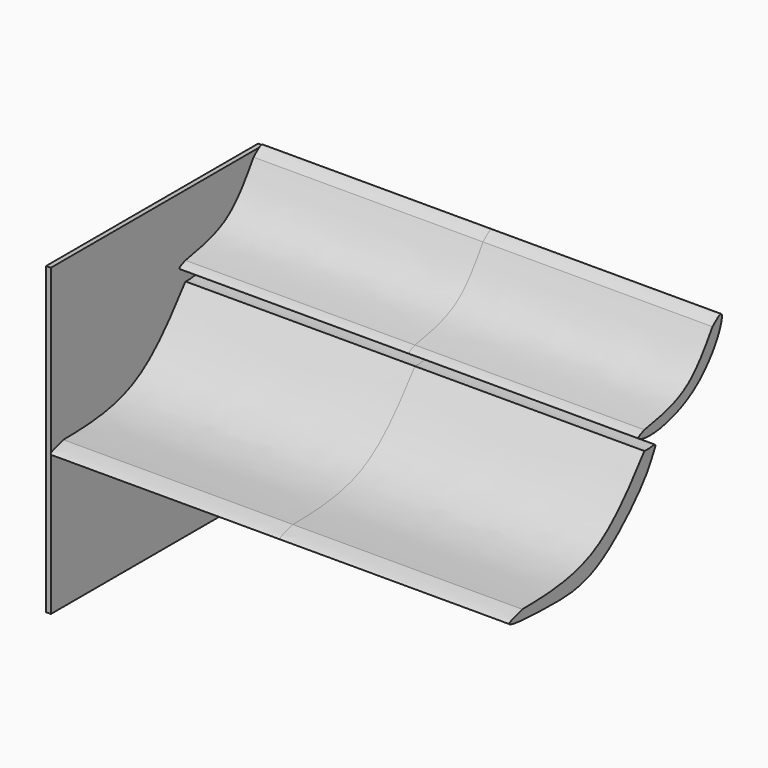
from build123d import *

# Parameters (mm, degrees)
F1_DEPTH      = 304.8
F1_DEPTH_BACK = 304.8
F2_W          = 352.0074793358
F2_H          = 404.9128138673
F3_DEPTH      = 6.35


with BuildPart() as f1:
    # F0 (on Right) → F1 (new body, two sides)
    with BuildSketch(Plane.YZ) as f1_sk:
        with BuildLine():
            add(Edge.make_bspline(
                [(-202.6852667332, -102.7310341597), (-211.2844708777, -105.0491450978), (-244.7517417054, -113.9577447915), (-150.921789205, -118.3879937753), (-77.6298104244, -116.8426703272), (1.9931834611, -36.1167204141), (12.5484359057, -11.874440147), (21.2394947025, 2.1845515765), (8.9061392196, -0.5884617957), (3.3205170334, -0.1983987481), (0, 0)],
                knots=[0, 0, 0, 0, 0.1027725422, 0.2712588428, 0.4708251277, 0.6901317405, 0.8037703185, 0.8714129667, 0.9325245086, 1, 1, 1, 1], degree=3))
            add(Edge.make_bspline(
                [(0, 0), (-25.563658428, -33.254615137), (-77.0567733596, -98.5736954544), (-160.0724958466, -102.3436006576), (-202.6852667332, -102.7310341597)],
                knots=[0, 0, 0, 0, 0.4992913072, 1, 1, 1, 1], degree=3))
        make_face()
    extrude(amount=F1_DEPTH)
    extrude(f1_sk.sketch, amount=-F1_DEPTH_BACK)


with BuildPart() as f1b:
    # F0 (on Right) → F1, piece 2 (new body, two sides)
    with BuildSketch(Plane.YZ) as f1_2_sk:
        with BuildLine():
            add(Edge.make_bspline(
                [(0, 24.7053261846), (24.5645267828, 29.0874599649), (73.4337711907, 37.8053794521), (99.9028810565, 78.9184387784), (113.0670756102, 99.3656814098)],
                knots=[0, 0, 0, 0, 0.5026582072, 1, 1, 1, 1], degree=3))
            add(Edge.make_bspline(
                [(0, 24.7053261846), (-4.7426999966, 22.9684229179), (-14.8071194978, 19.2825639933), (8.3862644827, 10.2425050031), (84.6072193814, 25.7127115357), (127.2106411001, 86.6843261724), (130.5292433566, 114.4629215991), (118.9707990569, 104.4698547394), (113.0670756102, 99.3656814098)],
                knots=[0, 0, 0, 0, 0.1019824891, 0.2164156605, 0.4863580219, 0.7523814198, 0.8735234968, 1, 1, 1, 1], degree=3))
        make_face()
    extrude(amount=F1_DEPTH)
    extrude(f1_2_sk.sketch, amount=-F1_DEPTH_BACK)


with BuildPart() as f3:
    # F2 (on face) → F3 (new body)
    with BuildSketch(Plane(origin=(-304.8, 0, 0), x_dir=(0, -1, 0), z_dir=(-1, 0, 0))):
        with Locations((47.4575905058, -95.5863998012)):
            Rectangle(F2_W, F2_H)
    extrude(amount=F3_DEPTH)


solid = Compound([f1.part, f1b.part, f3.part])
